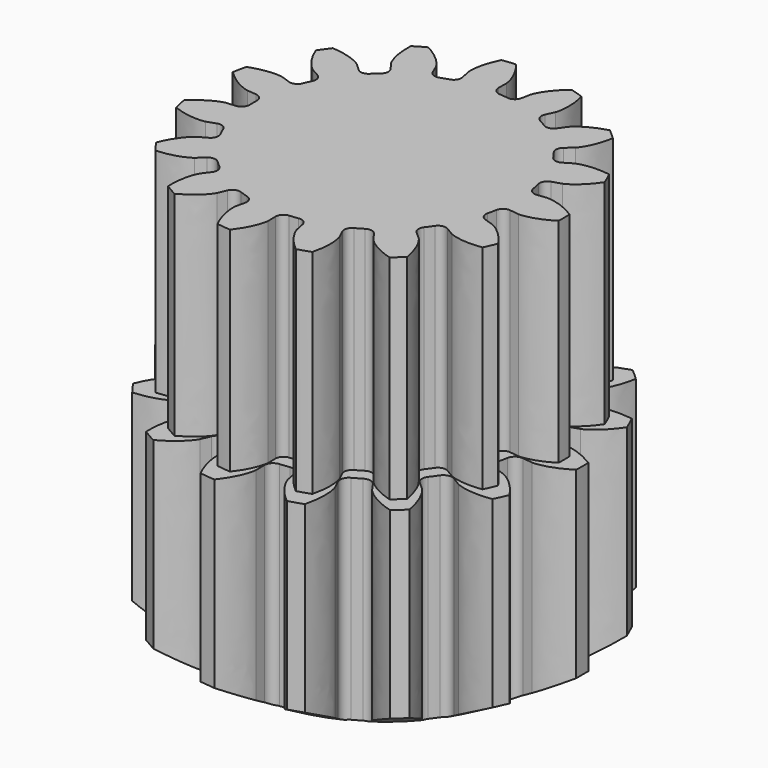
from build123d import *

# Parameters (mm, degrees)
PAD008_DEPTH = 10
PAD009_DEPTH = 10


with BuildPart() as part:
    # InvoluteGear005 → Pad008 (new body)
    with BuildSketch(Plane.XY):
        with BuildLine():
            Line((7.158149, -0.860395), (7.64458, -0.918067))
            add(Edge.make_bspline(
                [(7.64458, -0.918067), (7.723106, -0.920551), (8.037619, -0.919454), (8.590539, -0.778166), (9.258058, -0.35636)],
                knots=[0, 0, 0, 0, 0, 1, 1, 1, 1, 1], degree=4))
            ThreePointArc((9.258058, -0.35636), (9.264914, 0), (9.258058, 0.35636))
            add(Edge.make_bspline(
                [(9.258058, 0.35636), (8.590539, 0.778166), (8.037619, 0.919454), (7.723106, 0.920551), (7.64458, 0.918067)],
                knots=[0, 0, 0, 0, 0, 1, 1, 1, 1, 1], degree=4))
            Line((7.64458, 0.918067), (7.158149, 0.860395))
            ThreePointArc((7.158149, 0.860395), (6.866348, 0.937564), (6.70706, 1.193944))
            ThreePointArc((6.70706, 1.193944), (6.663631, 1.416398), (6.612825, 1.637285))
            ThreePointArc((6.612825, 1.637285), (6.654062, 1.936288), (6.889249, 2.125471))
            Line((6.889249, 2.125471), (7.357083, 2.270635))
            add(Edge.make_bspline(
                [(7.357083, 2.270635), (7.42983, 2.300305), (7.716706, 2.429231), (8.164356, 2.783197), (8.602602, 3.44004)],
                knots=[0, 0, 0, 0, 0, 1, 1, 1, 1, 1], degree=4))
            ThreePointArc((8.602602, 3.44004), (8.46392, 3.76838), (8.312712, 4.091143))
            add(Edge.make_bspline(
                [(8.312712, 4.091143), (7.531339, 4.204977), (6.968755, 4.109157), (6.680986, 3.982236), (6.61026, 3.948027)],
                knots=[0, 0, 0, 0, 0, 1, 1, 1, 1, 1], degree=4))
            Line((6.61026, 3.948027), (6.18934, 3.697492))
            ThreePointArc((6.18934, 3.697492), (5.891379, 3.649303), (5.641584, 3.818729))
            ThreePointArc((5.641584, 3.818729), (5.511428, 4.004287), (5.375172, 4.185413))
            ThreePointArc((5.375172, 4.185413), (5.291229, 4.475338), (5.429135, 4.743824))
            Line((5.429135, 4.743824), (5.797479, 5.066724))
            add(Edge.make_bspline(
                [(5.797479, 5.066724), (5.851869, 5.123417), (6.061504, 5.35788), (6.326482, 5.86332), (6.459677, 6.641627)],
                knots=[0, 0, 0, 0, 0, 1, 1, 1, 1, 1], degree=4))
            ThreePointArc((6.459677, 6.641627), (6.199438, 6.885173), (5.930023, 7.118529))
            add(Edge.make_bspline(
                [(5.930023, 7.118529), (5.169903, 6.904709), (4.694929, 6.58835), (4.483663, 6.355355), (4.432966, 6.295337)],
                knots=[0, 0, 0, 0, 0, 1, 1, 1, 1, 1], degree=4))
            Line((4.432966, 6.295337), (4.150338, 5.895258))
            ThreePointArc((4.150338, 5.895258), (3.897737, 5.730044), (3.600626, 5.783221))
            ThreePointArc((3.600626, 5.783221), (3.40625, 5.899798), (3.208103, 6.009844))
            ThreePointArc((3.208103, 6.009844), (3.013495, 6.240561), (3.030274, 6.541927))
            Line((3.030274, 6.541927), (3.235439, 6.98673))
            add(Edge.make_bspline(
                [(3.235439, 6.98673), (3.262067, 7.060644), (3.358213, 7.360103), (3.394702, 7.929621), (3.199816, 8.694815)],
                knots=[0, 0, 0, 0, 0, 1, 1, 1, 1, 1], degree=4))
            ThreePointArc((3.199816, 8.694815), (2.863016, 8.811457), (2.521979, 8.915058))
            add(Edge.make_bspline(
                [(2.521979, 8.915058), (1.914543, 8.410554), (1.609308, 7.928357), (1.511075, 7.629576), (1.489172, 7.554126)],
                knots=[0, 0, 0, 0, 0, 1, 1, 1, 1, 1], degree=4))
            Line((1.489172, 7.554126), (1.393705, 7.073681))
            ThreePointArc((1.393705, 7.073681), (1.230142, 6.820008), (0.937088, 6.747742))
            ThreePointArc((0.937088, 6.747742), (0.7121, 6.77518), (0.486324, 6.795119))
            ThreePointArc((0.486324, 6.795119), (0.214699, 6.926735), (0.107452, 7.208872))
            Line((0.107452, 7.208872), (0.113961, 7.698667))
            add(Edge.make_bspline(
                [(0.113961, 7.698667), (0.108224, 7.777021), (0.074257, 8.089697), (-0.124053, 8.624819), (-0.613323, 9.244591)],
                knots=[0, 0, 0, 0, 0, 1, 1, 1, 1, 1], degree=4))
            ThreePointArc((-0.613323, 9.244591), (-0.968447, 9.21416), (-1.322138, 9.170092))
            add(Edge.make_bspline(
                [(-1.322138, 9.170092), (-1.671859, 8.462138), (-1.754577, 7.897479), (-1.722793, 7.584574), (-1.712114, 7.506739)],
                knots=[0, 0, 0, 0, 0, 1, 1, 1, 1, 1], degree=4))
            Line((-1.712114, 7.506739), (-1.603912, 7.029))
            ThreePointArc((-1.603912, 7.029), (-1.650157, 6.730731), (-1.888482, 6.545517))
            ThreePointArc((-1.888482, 6.545517), (-2.105178, 6.479073), (-2.319545, 6.405456))
            ThreePointArc((-2.319545, 6.405456), (-2.621219, 6.415214), (-2.83395, 6.629336))
            Line((-2.83395, 6.629336), (-3.027221, 7.079434))
            add(Edge.make_bspline(
                [(-3.027221, 7.079434), (-3.064332, 7.148681), (-3.222539, 7.420509), (-3.621358, 7.828708), (-4.320412, 8.195894)],
                knots=[0, 0, 0, 0, 0, 1, 1, 1, 1, 1], degree=4))
            ThreePointArc((-4.320412, 8.195894), (-4.632457, 8.023651), (-4.937646, 7.839534))
            add(Edge.make_bspline(
                [(-4.937646, 7.839534), (-4.969181, 7.050542), (-4.81508, 6.501055), (-4.658774, 6.22813), (-4.617359, 6.161368)],
                knots=[0, 0, 0, 0, 0, 1, 1, 1, 1, 1], degree=4))
            Line((-4.617359, 6.161368), (-4.324199, 5.768941))
            ThreePointArc((-4.324199, 5.768941), (-4.245128, 5.477649), (-4.387515, 5.211513))
            ThreePointArc((-4.387515, 5.211513), (-4.558452, 5.062674), (-4.724343, 4.908232))
            ThreePointArc((-4.724343, 4.908232), (-5.003906, 4.794443), (-5.285336, 4.903529))
            Line((-5.285336, 4.903529), (-5.644969, 5.236103))
            add(Edge.make_bspline(
                [(-5.644969, 5.236103), (-5.707037, 5.284269), (-5.962129, 5.468248), (-6.492498, 5.678941), (-7.280463, 5.730051)],
                knots=[0, 0, 0, 0, 0, 1, 1, 1, 1, 1], degree=4))
            ThreePointArc((-7.280463, 5.730051), (-7.495473, 5.44578), (-7.69939, 5.153449))
            add(Edge.make_bspline(
                [(-7.69939, 5.153449), (-7.407286, 4.419843), (-7.043012, 3.98054), (-6.78921, 3.794786), (-6.724222, 3.75064)],
                knots=[0, 0, 0, 0, 0, 1, 1, 1, 1, 1], degree=4))
            Line((-6.724222, 3.75064), (-6.296792, 3.51138))
            ThreePointArc((-6.296792, 3.51138), (-6.106078, 3.277433), (-6.127908, 2.97639))
            ThreePointArc((-6.127908, 2.97639), (-6.223528, 2.770893), (-6.31226, 2.562329))
            ThreePointArc((-6.31226, 2.562329), (-6.521371, 2.34467), (-6.82284, 2.329857))
            Line((-6.82284, 2.329857), (-7.286651, 2.487402))
            add(Edge.make_bspline(
                [(-7.286651, 2.487402), (-7.362944, 2.506159), (-7.670812, 2.570476), (-8.241025, 2.547234), (-8.981656, 2.273431)],
                knots=[0, 0, 0, 0, 0, 1, 1, 1, 1, 1], degree=4))
            ThreePointArc((-8.981656, 2.273431), (-9.062454, 1.926284), (-9.129839, 1.576286))
            add(Edge.make_bspline(
                [(-9.129839, 1.576286), (-8.564605, 1.024913), (-8.053143, 0.771753), (-7.745731, 0.705289), (-7.668405, 0.691393)],
                knots=[0, 0, 0, 0, 0, 1, 1, 1, 1, 1], degree=4))
            Line((-7.668405, 0.691393), (-7.180612, 0.646669))
            ThreePointArc((-7.180612, 0.646669), (-6.911232, 0.510518), (-6.80873, 0.226623))
            ThreePointArc((-6.80873, 0.226623), (-6.8125, 0), (-6.80873, -0.226623))
            ThreePointArc((-6.80873, -0.226623), (-6.911232, -0.510518), (-7.180612, -0.646669))
            Line((-7.180612, -0.646669), (-7.668405, -0.691393))
            add(Edge.make_bspline(
                [(-7.668405, -0.691393), (-7.745731, -0.705289), (-8.053143, -0.771753), (-8.564605, -1.024913), (-9.129839, -1.576286)],
                knots=[0, 0, 0, 0, 0, 1, 1, 1, 1, 1], degree=4))
            ThreePointArc((-9.129839, -1.576286), (-9.062454, -1.926284), (-8.981656, -2.273431))
            add(Edge.make_bspline(
                [(-8.981656, -2.273431), (-8.241025, -2.547234), (-7.670812, -2.570476), (-7.362944, -2.506159), (-7.286651, -2.487402)],
                knots=[0, 0, 0, 0, 0, 1, 1, 1, 1, 1], degree=4))
            Line((-7.286651, -2.487402), (-6.82284, -2.329857))
            ThreePointArc((-6.82284, -2.329857), (-6.521371, -2.34467), (-6.31226, -2.562329))
            ThreePointArc((-6.31226, -2.562329), (-6.223528, -2.770893), (-6.127908, -2.97639))
            ThreePointArc((-6.127908, -2.97639), (-6.106078, -3.277433), (-6.296792, -3.51138))
            Line((-6.296792, -3.51138), (-6.724222, -3.75064))
            add(Edge.make_bspline(
                [(-6.724222, -3.75064), (-6.78921, -3.794786), (-7.043012, -3.98054), (-7.407286, -4.419843), (-7.69939, -5.153449)],
                knots=[0, 0, 0, 0, 0, 1, 1, 1, 1, 1], degree=4))
            ThreePointArc((-7.69939, -5.153449), (-7.495473, -5.44578), (-7.280463, -5.730051))
            add(Edge.make_bspline(
                [(-7.280463, -5.730051), (-6.492498, -5.678941), (-5.962129, -5.468248), (-5.707037, -5.284269), (-5.644969, -5.236103)],
                knots=[0, 0, 0, 0, 0, 1, 1, 1, 1, 1], degree=4))
            Line((-5.644969, -5.236103), (-5.285336, -4.903529))
            ThreePointArc((-5.285336, -4.903529), (-5.003906, -4.794443), (-4.724343, -4.908232))
            ThreePointArc((-4.724343, -4.908232), (-4.558452, -5.062674), (-4.387515, -5.211513))
            ThreePointArc((-4.387515, -5.211513), (-4.245128, -5.477649), (-4.324199, -5.768941))
            Line((-4.324199, -5.768941), (-4.617359, -6.161368))
            add(Edge.make_bspline(
                [(-4.617359, -6.161368), (-4.658774, -6.22813), (-4.81508, -6.501055), (-4.969181, -7.050542), (-4.937646, -7.839534)],
                knots=[0, 0, 0, 0, 0, 1, 1, 1, 1, 1], degree=4))
            ThreePointArc((-4.937646, -7.839534), (-4.632457, -8.023651), (-4.320412, -8.195894))
            add(Edge.make_bspline(
                [(-4.320412, -8.195894), (-3.621358, -7.828708), (-3.222539, -7.420509), (-3.064332, -7.148681), (-3.027221, -7.079434)],
                knots=[0, 0, 0, 0, 0, 1, 1, 1, 1, 1], degree=4))
            Line((-3.027221, -7.079434), (-2.83395, -6.629336))
            ThreePointArc((-2.83395, -6.629336), (-2.621219, -6.415214), (-2.319545, -6.405456))
            ThreePointArc((-2.319545, -6.405456), (-2.105178, -6.479073), (-1.888482, -6.545517))
            ThreePointArc((-1.888482, -6.545517), (-1.650157, -6.730731), (-1.603912, -7.029))
            Line((-1.603912, -7.029), (-1.712114, -7.506739))
            add(Edge.make_bspline(
                [(-1.712114, -7.506739), (-1.722793, -7.584574), (-1.754577, -7.897479), (-1.671859, -8.462138), (-1.322138, -9.170092)],
                knots=[0, 0, 0, 0, 0, 1, 1, 1, 1, 1], degree=4))
            ThreePointArc((-1.322138, -9.170092), (-0.968447, -9.21416), (-0.613323, -9.244591))
            add(Edge.make_bspline(
                [(-0.613323, -9.244591), (-0.124053, -8.624819), (0.074257, -8.089697), (0.108224, -7.777021), (0.113961, -7.698667)],
                knots=[0, 0, 0, 0, 0, 1, 1, 1, 1, 1], degree=4))
            Line((0.113961, -7.698667), (0.107452, -7.208872))
            ThreePointArc((0.107452, -7.208872), (0.214699, -6.926735), (0.486324, -6.795119))
            ThreePointArc((0.486324, -6.795119), (0.7121, -6.77518), (0.937088, -6.747742))
            ThreePointArc((0.937088, -6.747742), (1.230142, -6.820008), (1.393705, -7.073681))
            Line((1.393705, -7.073681), (1.489172, -7.554126))
            add(Edge.make_bspline(
                [(1.489172, -7.554126), (1.511075, -7.629576), (1.609308, -7.928357), (1.914543, -8.410554), (2.521979, -8.915058)],
                knots=[0, 0, 0, 0, 0, 1, 1, 1, 1, 1], degree=4))
            ThreePointArc((2.521979, -8.915058), (2.863016, -8.811457), (3.199816, -8.694815))
            add(Edge.make_bspline(
                [(3.199816, -8.694815), (3.394702, -7.929621), (3.358213, -7.360103), (3.262067, -7.060644), (3.235439, -6.98673)],
                knots=[0, 0, 0, 0, 0, 1, 1, 1, 1, 1], degree=4))
            Line((3.235439, -6.98673), (3.030274, -6.541927))
            ThreePointArc((3.030274, -6.541927), (3.013495, -6.240561), (3.208103, -6.009844))
            ThreePointArc((3.208103, -6.009844), (3.40625, -5.899798), (3.600626, -5.783221))
            ThreePointArc((3.600626, -5.783221), (3.897737, -5.730044), (4.150338, -5.895258))
            Line((4.150338, -5.895258), (4.432966, -6.295337))
            add(Edge.make_bspline(
                [(4.432966, -6.295337), (4.483663, -6.355355), (4.694929, -6.58835), (5.169903, -6.904709), (5.930023, -7.118529)],
                knots=[0, 0, 0, 0, 0, 1, 1, 1, 1, 1], degree=4))
            ThreePointArc((5.930023, -7.118529), (6.199438, -6.885173), (6.459677, -6.641627))
            add(Edge.make_bspline(
                [(6.459677, -6.641627), (6.326482, -5.86332), (6.061504, -5.35788), (5.851869, -5.123417), (5.797479, -5.066724)],
                knots=[0, 0, 0, 0, 0, 1, 1, 1, 1, 1], degree=4))
            Line((5.797479, -5.066724), (5.429135, -4.743824))
            ThreePointArc((5.429135, -4.743824), (5.291229, -4.475338), (5.375172, -4.185413))
            ThreePointArc((5.375172, -4.185413), (5.511428, -4.004287), (5.641584, -3.818729))
            ThreePointArc((5.641584, -3.818729), (5.891379, -3.649303), (6.18934, -3.697492))
            Line((6.18934, -3.697492), (6.61026, -3.948027))
            add(Edge.make_bspline(
                [(6.61026, -3.948027), (6.680986, -3.982236), (6.968755, -4.109157), (7.531339, -4.204977), (8.312712, -4.091143)],
                knots=[0, 0, 0, 0, 0, 1, 1, 1, 1, 1], degree=4))
            ThreePointArc((8.312712, -4.091143), (8.46392, -3.76838), (8.602602, -3.44004))
            add(Edge.make_bspline(
                [(8.602602, -3.44004), (8.164356, -2.783197), (7.716706, -2.429231), (7.42983, -2.300305), (7.357083, -2.270635)],
                knots=[0, 0, 0, 0, 0, 1, 1, 1, 1, 1], degree=4))
            Line((7.357083, -2.270635), (6.889249, -2.125471))
            ThreePointArc((6.889249, -2.125471), (6.654062, -1.936288), (6.612825, -1.637285))
            ThreePointArc((6.612825, -1.637285), (6.663631, -1.416398), (6.70706, -1.193944))
            ThreePointArc((6.70706, -1.193944), (6.866348, -0.937564), (7.158149, -0.860395))
        make_face()
    extrude(amount=PAD008_DEPTH)

    # InvoluteGear004 → Pad009 (join)
    with BuildSketch(Plane.XY.offset(10)):
        with BuildLine():
            Line((6.501438, -0.78146), (6.943243, -0.83384))
            add(Edge.make_bspline(
                [(6.943243, -0.83384), (7.014564, -0.836097), (7.300223, -0.8351), (7.802416, -0.706774), (8.408695, -0.323666)],
                knots=[0, 0, 0, 0, 0, 1, 1, 1, 1, 1], degree=4))
            ThreePointArc((8.408695, -0.323666), (8.414922, 0), (8.408695, 0.323666))
            add(Edge.make_bspline(
                [(8.408695, 0.323666), (7.802416, 0.706774), (7.300223, 0.8351), (7.014564, 0.836097), (6.943243, 0.83384)],
                knots=[0, 0, 0, 0, 0, 1, 1, 1, 1, 1], degree=4))
            Line((6.943243, 0.83384), (6.501438, 0.78146))
            ThreePointArc((6.501438, 0.78146), (6.236408, 0.851549), (6.091733, 1.084407))
            ThreePointArc((6.091733, 1.084407), (6.052288, 1.286454), (6.006144, 1.487076))
            ThreePointArc((6.006144, 1.487076), (6.043598, 1.758647), (6.257208, 1.930474))
            Line((6.257208, 1.930474), (6.682121, 2.06232))
            add(Edge.make_bspline(
                [(6.682121, 2.06232), (6.748194, 2.089268), (7.008751, 2.206366), (7.415333, 2.527858), (7.813372, 3.12444)],
                knots=[0, 0, 0, 0, 0, 1, 1, 1, 1, 1], degree=4))
            ThreePointArc((7.813372, 3.12444), (7.687414, 3.422657), (7.550078, 3.715808))
            add(Edge.make_bspline(
                [(7.550078, 3.715808), (6.840391, 3.819199), (6.329419, 3.73217), (6.068052, 3.616893), (6.003815, 3.585822)],
                knots=[0, 0, 0, 0, 0, 1, 1, 1, 1, 1], degree=4))
            Line((6.003815, 3.585822), (5.621511, 3.358272))
            ThreePointArc((5.621511, 3.358272), (5.350886, 3.314504), (5.124007, 3.468387))
            ThreePointArc((5.124007, 3.468387), (5.005793, 3.636921), (4.882037, 3.80143))
            ThreePointArc((4.882037, 3.80143), (4.805795, 4.064756), (4.931049, 4.308611))
            Line((4.931049, 4.308611), (5.2656, 4.601887))
            add(Edge.make_bspline(
                [(5.2656, 4.601887), (5.315001, 4.653379), (5.505403, 4.866332), (5.746071, 5.325401), (5.867046, 6.032303)],
                knots=[0, 0, 0, 0, 0, 1, 1, 1, 1, 1], degree=4))
            ThreePointArc((5.867046, 6.032303), (5.630682, 6.253506), (5.385984, 6.465453))
            add(Edge.make_bspline(
                [(5.385984, 6.465453), (4.6956, 6.271249), (4.264202, 5.983914), (4.072318, 5.772295), (4.026272, 5.717783)],
                knots=[0, 0, 0, 0, 0, 1, 1, 1, 1, 1], degree=4))
            Line((4.026272, 5.717783), (3.769573, 5.354409))
            ThreePointArc((3.769573, 5.354409), (3.540147, 5.204352), (3.270294, 5.25265))
            ThreePointArc((3.270294, 5.25265), (3.09375, 5.358532), (2.913782, 5.458483))
            ThreePointArc((2.913782, 5.458483), (2.737027, 5.668033), (2.752267, 5.94175))
            Line((2.752267, 5.94175), (2.938609, 6.345745))
            add(Edge.make_bspline(
                [(2.938609, 6.345745), (2.962795, 6.412878), (3.05012, 6.684864), (3.083261, 7.202133), (2.906255, 7.897126)],
                knots=[0, 0, 0, 0, 0, 1, 1, 1, 1, 1], degree=4))
            ThreePointArc((2.906255, 7.897126), (2.600354, 8.003066), (2.290605, 8.097163))
            add(Edge.make_bspline(
                [(2.290605, 8.097163), (1.738897, 7.638944), (1.461665, 7.200984), (1.372444, 6.929615), (1.352551, 6.861087)],
                knots=[0, 0, 0, 0, 0, 1, 1, 1, 1, 1], degree=4))
            Line((1.352551, 6.861087), (1.265842, 6.424719))
            ThreePointArc((1.265842, 6.424719), (1.117285, 6.194319), (0.851116, 6.128683))
            ThreePointArc((0.851116, 6.128683), (0.64677, 6.153604), (0.441707, 6.171714))
            ThreePointArc((0.441707, 6.171714), (0.195002, 6.291255), (0.097594, 6.547507))
            Line((0.097594, 6.547507), (0.103506, 6.992367))
            add(Edge.make_bspline(
                [(0.103506, 6.992367), (0.098295, 7.063533), (0.067444, 7.347523), (-0.112672, 7.833552), (-0.557055, 8.396464)],
                knots=[0, 0, 0, 0, 0, 1, 1, 1, 1, 1], degree=4))
            ThreePointArc((-0.557055, 8.396464), (-0.879599, 8.368824), (-1.200841, 8.328799))
            add(Edge.make_bspline(
                [(-1.200841, 8.328799), (-1.518477, 7.685795), (-1.593607, 7.172939), (-1.564738, 6.888741), (-1.555039, 6.818047)],
                knots=[0, 0, 0, 0, 0, 1, 1, 1, 1, 1], degree=4))
            Line((-1.555039, 6.818047), (-1.456764, 6.384138))
            ThreePointArc((-1.456764, 6.384138), (-1.498766, 6.113233), (-1.715226, 5.945011))
            ThreePointArc((-1.715226, 5.945011), (-1.912043, 5.884662), (-2.106742, 5.8178))
            ThreePointArc((-2.106742, 5.8178), (-2.380741, 5.826662), (-2.573955, 6.02114))
            Line((-2.573955, 6.02114), (-2.749494, 6.429945))
            add(Edge.make_bspline(
                [(-2.749494, 6.429945), (-2.783201, 6.492839), (-2.926893, 6.739728), (-3.289123, 7.110478), (-3.924044, 7.443977)],
                knots=[0, 0, 0, 0, 0, 1, 1, 1, 1, 1], degree=4))
            ThreePointArc((-3.924044, 7.443977), (-4.207461, 7.287536), (-4.484651, 7.12031))
            add(Edge.make_bspline(
                [(-4.484651, 7.12031), (-4.513292, 6.403703), (-4.373329, 5.904628), (-4.231363, 5.656742), (-4.193748, 5.596104)],
                knots=[0, 0, 0, 0, 0, 1, 1, 1, 1, 1], degree=4))
            Line((-4.193748, 5.596104), (-3.927483, 5.23968))
            ThreePointArc((-3.927483, 5.23968), (-3.855667, 4.975113), (-3.984991, 4.733392))
            ThreePointArc((-3.984991, 4.733392), (-4.140246, 4.598209), (-4.290917, 4.457935))
            ThreePointArc((-4.290917, 4.457935), (-4.544832, 4.354586), (-4.800443, 4.453664))
            Line((-4.800443, 4.453664), (-5.127082, 4.755727))
            add(Edge.make_bspline(
                [(-5.127082, 4.755727), (-5.183456, 4.799474), (-5.415145, 4.966573), (-5.896856, 5.157937), (-6.612531, 5.204359)],
                knots=[0, 0, 0, 0, 0, 1, 1, 1, 1, 1], degree=4))
            ThreePointArc((-6.612531, 5.204359), (-6.807815, 4.946167), (-6.993024, 4.680655))
            add(Edge.make_bspline(
                [(-6.993024, 4.680655), (-6.727719, 4.014353), (-6.396864, 3.615353), (-6.166347, 3.44664), (-6.107321, 3.406545)],
                knots=[0, 0, 0, 0, 0, 1, 1, 1, 1, 1], degree=4))
            Line((-6.107321, 3.406545), (-5.719104, 3.189235))
            ThreePointArc((-5.719104, 3.189235), (-5.545888, 2.976751), (-5.565715, 2.703327))
            ThreePointArc((-5.565715, 2.703327), (-5.652563, 2.516683), (-5.733154, 2.327253))
            ThreePointArc((-5.733154, 2.327253), (-5.92308, 2.129563), (-6.196891, 2.116108))
            Line((-6.196891, 2.116108), (-6.618151, 2.2592))
            add(Edge.make_bspline(
                [(-6.618151, 2.2592), (-6.687444, 2.276236), (-6.967068, 2.334653), (-7.484968, 2.313543), (-8.157651, 2.06486)],
                knots=[0, 0, 0, 0, 0, 1, 1, 1, 1, 1], degree=4))
            ThreePointArc((-8.157651, 2.06486), (-8.231036, 1.749561), (-8.292239, 1.431672))
            add(Edge.make_bspline(
                [(-8.292239, 1.431672), (-7.778861, 0.930884), (-7.314322, 0.70095), (-7.035113, 0.640584), (-6.964881, 0.627962)],
                knots=[0, 0, 0, 0, 0, 1, 1, 1, 1, 1], degree=4))
            Line((-6.964881, 0.627962), (-6.521841, 0.587342))
            ThreePointArc((-6.521841, 0.587342), (-6.277174, 0.463681), (-6.184075, 0.205832))
            ThreePointArc((-6.184075, 0.205832), (-6.1875, 0), (-6.184075, -0.205832))
            ThreePointArc((-6.184075, -0.205832), (-6.277174, -0.463681), (-6.521841, -0.587342))
            Line((-6.521841, -0.587342), (-6.964881, -0.627962))
            add(Edge.make_bspline(
                [(-6.964881, -0.627962), (-7.035113, -0.640584), (-7.314322, -0.70095), (-7.778861, -0.930884), (-8.292239, -1.431672)],
                knots=[0, 0, 0, 0, 0, 1, 1, 1, 1, 1], degree=4))
            ThreePointArc((-8.292239, -1.431672), (-8.231036, -1.749561), (-8.157651, -2.06486))
            add(Edge.make_bspline(
                [(-8.157651, -2.06486), (-7.484968, -2.313543), (-6.967068, -2.334653), (-6.687444, -2.276236), (-6.618151, -2.2592)],
                knots=[0, 0, 0, 0, 0, 1, 1, 1, 1, 1], degree=4))
            Line((-6.618151, -2.2592), (-6.196891, -2.116108))
            ThreePointArc((-6.196891, -2.116108), (-5.92308, -2.129563), (-5.733154, -2.327253))
            ThreePointArc((-5.733154, -2.327253), (-5.652563, -2.516683), (-5.565715, -2.703327))
            ThreePointArc((-5.565715, -2.703327), (-5.545888, -2.976751), (-5.719104, -3.189235))
            Line((-5.719104, -3.189235), (-6.107321, -3.406545))
            add(Edge.make_bspline(
                [(-6.107321, -3.406545), (-6.166347, -3.44664), (-6.396864, -3.615353), (-6.727719, -4.014353), (-6.993024, -4.680655)],
                knots=[0, 0, 0, 0, 0, 1, 1, 1, 1, 1], degree=4))
            ThreePointArc((-6.993024, -4.680655), (-6.807815, -4.946167), (-6.612531, -5.204359))
            add(Edge.make_bspline(
                [(-6.612531, -5.204359), (-5.896856, -5.157937), (-5.415145, -4.966573), (-5.183456, -4.799474), (-5.127082, -4.755727)],
                knots=[0, 0, 0, 0, 0, 1, 1, 1, 1, 1], degree=4))
            Line((-5.127082, -4.755727), (-4.800443, -4.453664))
            ThreePointArc((-4.800443, -4.453664), (-4.544832, -4.354586), (-4.290917, -4.457935))
            ThreePointArc((-4.290917, -4.457935), (-4.140246, -4.598209), (-3.984991, -4.733392))
            ThreePointArc((-3.984991, -4.733392), (-3.855667, -4.975113), (-3.927483, -5.23968))
            Line((-3.927483, -5.23968), (-4.193748, -5.596104))
            add(Edge.make_bspline(
                [(-4.193748, -5.596104), (-4.231363, -5.656742), (-4.373329, -5.904628), (-4.513292, -6.403703), (-4.484651, -7.12031)],
                knots=[0, 0, 0, 0, 0, 1, 1, 1, 1, 1], degree=4))
            ThreePointArc((-4.484651, -7.12031), (-4.207461, -7.287536), (-3.924044, -7.443977))
            add(Edge.make_bspline(
                [(-3.924044, -7.443977), (-3.289123, -7.110478), (-2.926893, -6.739728), (-2.783201, -6.492839), (-2.749494, -6.429945)],
                knots=[0, 0, 0, 0, 0, 1, 1, 1, 1, 1], degree=4))
            Line((-2.749494, -6.429945), (-2.573955, -6.02114))
            ThreePointArc((-2.573955, -6.02114), (-2.380741, -5.826662), (-2.106742, -5.8178))
            ThreePointArc((-2.106742, -5.8178), (-1.912043, -5.884662), (-1.715226, -5.945011))
            ThreePointArc((-1.715226, -5.945011), (-1.498766, -6.113233), (-1.456764, -6.384138))
            Line((-1.456764, -6.384138), (-1.555039, -6.818047))
            add(Edge.make_bspline(
                [(-1.555039, -6.818047), (-1.564738, -6.888741), (-1.593607, -7.172939), (-1.518477, -7.685795), (-1.200841, -8.328799)],
                knots=[0, 0, 0, 0, 0, 1, 1, 1, 1, 1], degree=4))
            ThreePointArc((-1.200841, -8.328799), (-0.879599, -8.368824), (-0.557055, -8.396464))
            add(Edge.make_bspline(
                [(-0.557055, -8.396464), (-0.112672, -7.833552), (0.067444, -7.347523), (0.098295, -7.063533), (0.103506, -6.992367)],
                knots=[0, 0, 0, 0, 0, 1, 1, 1, 1, 1], degree=4))
            Line((0.103506, -6.992367), (0.097594, -6.547507))
            ThreePointArc((0.097594, -6.547507), (0.195002, -6.291255), (0.441707, -6.171714))
            ThreePointArc((0.441707, -6.171714), (0.64677, -6.153604), (0.851116, -6.128683))
            ThreePointArc((0.851116, -6.128683), (1.117285, -6.194319), (1.265842, -6.424719))
            Line((1.265842, -6.424719), (1.352551, -6.861087))
            add(Edge.make_bspline(
                [(1.352551, -6.861087), (1.372444, -6.929615), (1.461665, -7.200984), (1.738897, -7.638944), (2.290605, -8.097163)],
                knots=[0, 0, 0, 0, 0, 1, 1, 1, 1, 1], degree=4))
            ThreePointArc((2.290605, -8.097163), (2.600354, -8.003066), (2.906255, -7.897126))
            add(Edge.make_bspline(
                [(2.906255, -7.897126), (3.083261, -7.202133), (3.05012, -6.684864), (2.962795, -6.412878), (2.938609, -6.345745)],
                knots=[0, 0, 0, 0, 0, 1, 1, 1, 1, 1], degree=4))
            Line((2.938609, -6.345745), (2.752267, -5.94175))
            ThreePointArc((2.752267, -5.94175), (2.737027, -5.668033), (2.913782, -5.458483))
            ThreePointArc((2.913782, -5.458483), (3.09375, -5.358532), (3.270294, -5.25265))
            ThreePointArc((3.270294, -5.25265), (3.540147, -5.204352), (3.769573, -5.354409))
            Line((3.769573, -5.354409), (4.026272, -5.717783))
            add(Edge.make_bspline(
                [(4.026272, -5.717783), (4.072318, -5.772295), (4.264202, -5.983914), (4.6956, -6.271249), (5.385984, -6.465453)],
                knots=[0, 0, 0, 0, 0, 1, 1, 1, 1, 1], degree=4))
            ThreePointArc((5.385984, -6.465453), (5.630682, -6.253506), (5.867046, -6.032303))
            add(Edge.make_bspline(
                [(5.867046, -6.032303), (5.746071, -5.325401), (5.505403, -4.866332), (5.315001, -4.653379), (5.2656, -4.601887)],
                knots=[0, 0, 0, 0, 0, 1, 1, 1, 1, 1], degree=4))
            Line((5.2656, -4.601887), (4.931049, -4.308611))
            ThreePointArc((4.931049, -4.308611), (4.805795, -4.064756), (4.882037, -3.80143))
            ThreePointArc((4.882037, -3.80143), (5.005793, -3.636921), (5.124007, -3.468387))
            ThreePointArc((5.124007, -3.468387), (5.350886, -3.314504), (5.621511, -3.358272))
            Line((5.621511, -3.358272), (6.003815, -3.585822))
            add(Edge.make_bspline(
                [(6.003815, -3.585822), (6.068052, -3.616893), (6.329419, -3.73217), (6.840391, -3.819199), (7.550078, -3.715808)],
                knots=[0, 0, 0, 0, 0, 1, 1, 1, 1, 1], degree=4))
            ThreePointArc((7.550078, -3.715808), (7.687414, -3.422657), (7.813372, -3.12444))
            add(Edge.make_bspline(
                [(7.813372, -3.12444), (7.415333, -2.527858), (7.008751, -2.206366), (6.748194, -2.089268), (6.682121, -2.06232)],
                knots=[0, 0, 0, 0, 0, 1, 1, 1, 1, 1], degree=4))
            Line((6.682121, -2.06232), (6.257208, -1.930474))
            ThreePointArc((6.257208, -1.930474), (6.043598, -1.758647), (6.006144, -1.487076))
            ThreePointArc((6.006144, -1.487076), (6.052288, -1.286454), (6.091733, -1.084407))
            ThreePointArc((6.091733, -1.084407), (6.236408, -0.851549), (6.501438, -0.78146))
        make_face()
    extrude(amount=PAD009_DEPTH)

    # Sketch027 → Groove003 (revolve, cut)
    with BuildSketch(Plane.XZ):
        Polygon((9.36, 0), (9.36, 1.437602), (6.87, 0), (8.25, 0), align=None)
    revolve(axis=Axis((0, 0, 0), (0, 0, 1)), mode=Mode.SUBTRACT)


with BuildPart() as part_1:
    # Body005 placement: moved
    add(part.part.moved(Location((16.5, 0, 0))))


solid = part_1.part
